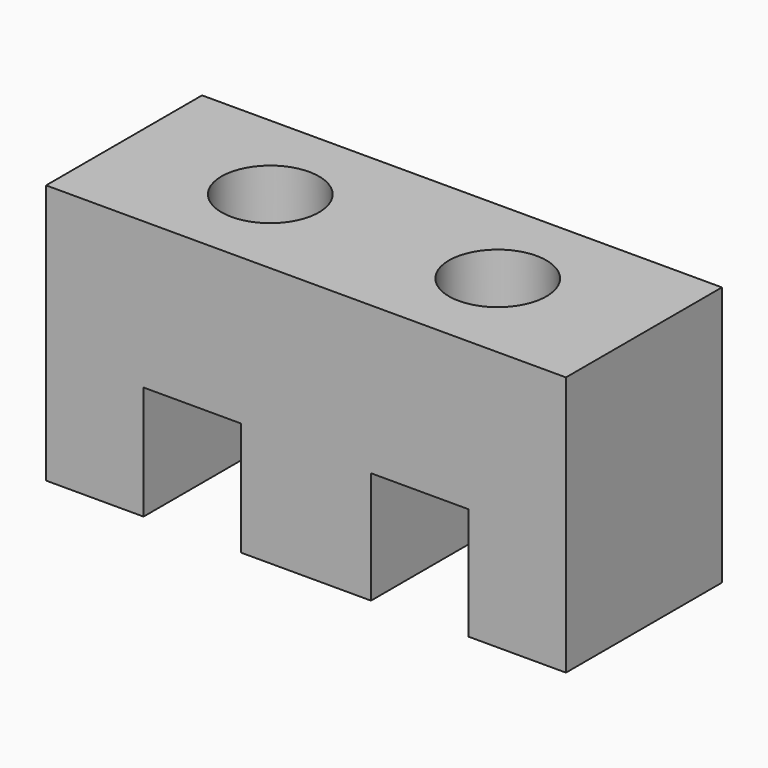
from build123d import *

# Parameters (mm, degrees)
F1_DEPTH = 76.2
F3_D     = 38.1


with BuildPart() as f1:
    # F0 (on Front) → F1 (new body)
    with BuildSketch(Plane.XZ):
        Polygon((0, 101.6), (0, 0), (38.1, 0), (38.1, 44.437758), (76.2, 44.437758), (76.2, 0), (127, 0), (127, 43.850472), (165.1, 43.850472), (165.1, 0), (203.2, 0), (203.2, 101.6), align=None)
    extrude(amount=-F1_DEPTH)

    # F3 (through all)
    with Locations(Plane.XY.offset(101.6)):
        with Locations((57.15, 38.1), (146.05, 38.1)):
            Hole(F3_D / 2)


solid = f1.part
